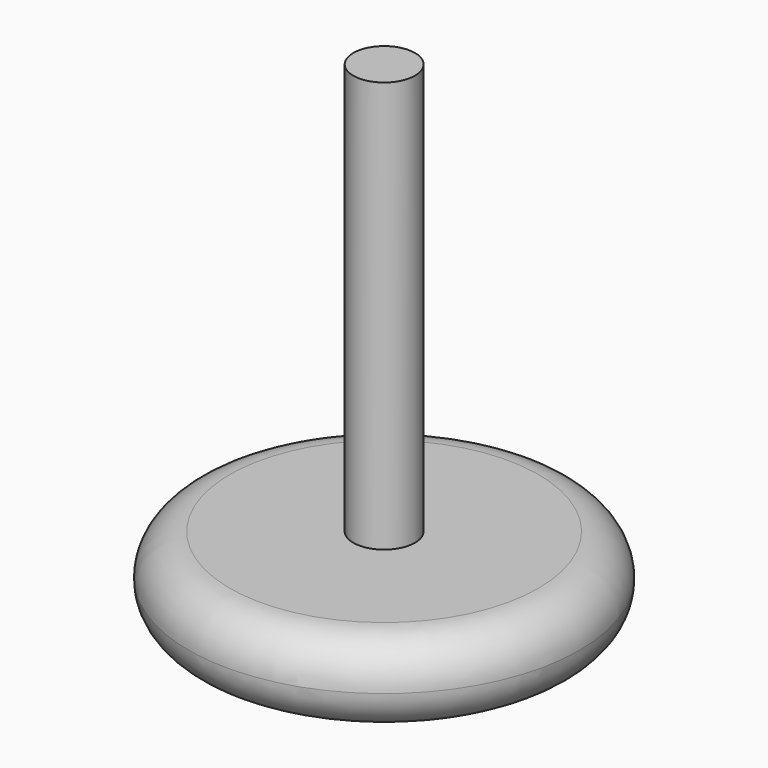
from build123d import *


with BuildPart() as f1:
    # F0 (on Front) → F1 (revolve)
    with BuildSketch(Plane.XZ):
        with BuildLine():
            Line((0, 76.2), (0, 0))
            Line((0, 0), (23.8125, 0))
            ThreePointArc((23.8125, 0), (28.302628, 1.859872), (30.1625, 6.35))
            ThreePointArc((30.1625, 6.35), (28.302628, 10.840128), (23.8125, 12.7))
            Line((23.8125, 12.7), (4.7625, 12.7))
            Line((4.7625, 12.7), (4.7625, 76.2))
            Line((4.7625, 76.2), (0, 76.2))
        make_face()
    revolve(axis=Axis((0, 0, 38.1), (0, 0, 1)))


solid = f1.part
